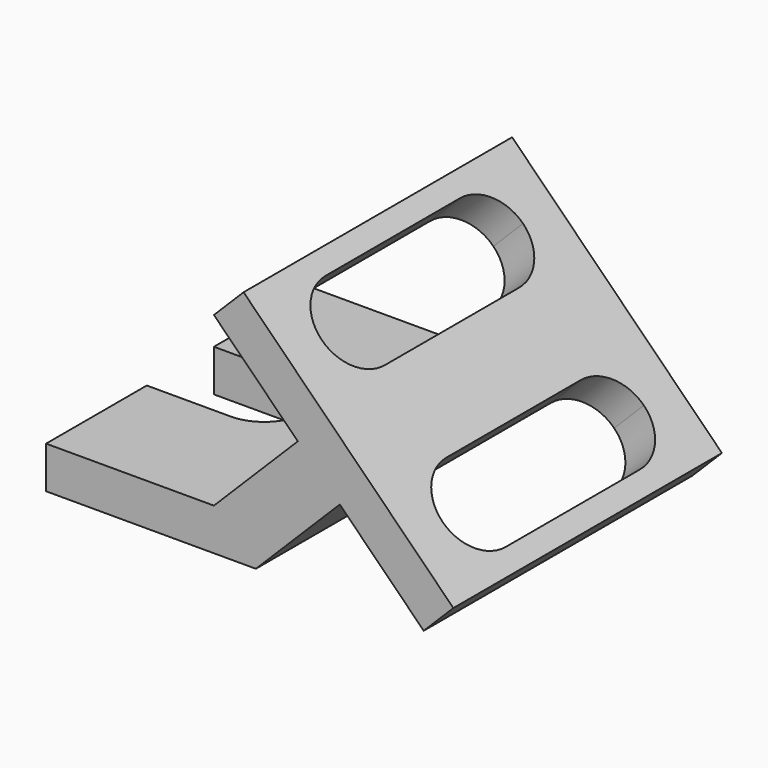
from build123d import *

# Parameters (mm, degrees)
F1_DEPTH = 101.6
F3_DEPTH = 50.8
F5_DEPTH = 38.1


with BuildPart() as f1:
    # F0 (on Front) → F1 (new body, symmetric)
    with BuildSketch(Plane.XZ):
        Polygon((0, 25.4), (0, 0), (127, 0), (177.8, 50.8), (228.6, 0), (246.560512, 17.960512), (119.560512, 144.960512), (101.6, 127), (152.4, 76.2), (101.6, 25.4), align=None)
    extrude(amount=F1_DEPTH, both=True)

    # F2 (on face) → F3 (cut)
    with BuildSketch(Plane(origin=(132.260512, 0, 132.260512), x_dir=(0.707107, 0, -0.707107), z_dir=(0.707107, 0, 0.707107))):
        with BuildLine():
            ThreePointArc((123.54461, -76.2), (141.505122, -68.760512), (148.94461, -50.8))
            Line((148.94461, -50.8), (148.94461, 50.8))
            ThreePointArc((148.94461, 50.8), (141.505122, 68.760512), (123.54461, 76.2))
            ThreePointArc((123.54461, 76.2), (105.584098, 68.760512), (98.14461, 50.8))
            Line((98.14461, 50.8), (98.14461, -50.8))
            ThreePointArc((98.14461, -50.8), (105.584098, -68.760512), (123.54461, -76.2))
        make_face()
        with BuildLine():
            Line((-5.260512, 50.8), (-5.260512, -50.8))
            ThreePointArc((-5.260512, -50.8), (2.178976, -68.760512), (20.139488, -76.2))
            ThreePointArc((20.139488, -76.2), (38.1, -68.760512), (45.539488, -50.8))
            Line((45.539488, -50.8), (45.539488, 50.8))
            ThreePointArc((45.539488, 50.8), (38.1, 68.760512), (20.139488, 76.2))
            ThreePointArc((20.139488, 76.2), (2.178976, 68.760512), (-5.260512, 50.8))
        make_face()
    extrude(amount=-F3_DEPTH, mode=Mode.SUBTRACT)

    # F4 (on face) → F5 (cut)
    with BuildSketch(Plane.XY.offset(25.4)):
        with BuildLine():
            Line((0, -25.4), (50.8, -25.4))
            ThreePointArc((50.8, -25.4), (76.2, 0), (50.8, 25.4))
            Line((50.8, 25.4), (0, 25.4))
            Line((0, 25.4), (0, -25.4))
        make_face()
    extrude(amount=-F5_DEPTH, mode=Mode.SUBTRACT)


solid = f1.part
